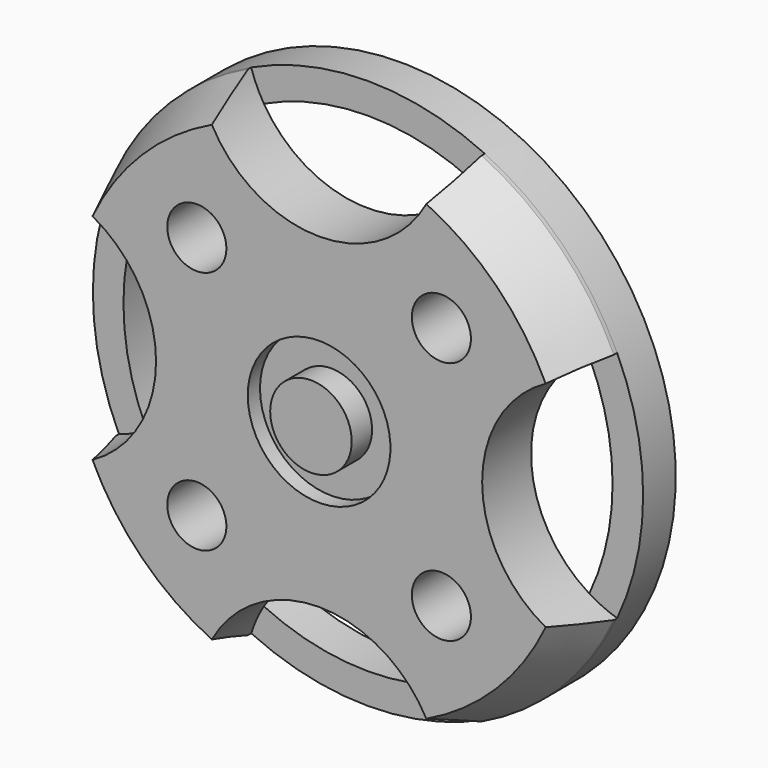
from build123d import *

# Parameters (mm, degrees)
CYLINDER032_R             = 1.45
CYLINDER032_DEPTH         = 10
CYLINDER033_R             = 1.45
CYLINDER033_DEPTH         = 10
CYLINDER034_R             = 1.45
CYLINDER034_DEPTH         = 10
CYLINDER031_R             = 1.45
CYLINDER031_DEPTH         = 10
CYLINDER028_R             = 3.5
CYLINDER028_DEPTH         = 10
CYLINDER026_R             = 6
CYLINDER026_DEPTH         = 10
CYLINDER027_R             = 6
CYLINDER027_DEPTH         = 10
CYLINDER024_R             = 6
CYLINDER024_DEPTH         = 10
CYLINDER025_R             = 6
CYLINDER025_DEPTH         = 10
CYLINDER023_R             = 13.5
CYLINDER023_DEPTH         = 3
CHAMFER003_SIZE2          = 1.2
CHAMFER003_SIZE           = 2.8
CYLINDER010_R             = 12
CYLINDER010_DEPTH         = 2
CYLINDER011_R             = 13.5
CYLINDER011_DEPTH         = 2
CYLINDER030_R             = 2
CYLINDER030_DEPTH         = 3
CYLINDER029_R             = 3.5
CYLINDER029_DEPTH         = 1.5
FUSION008_ROLL_ANGLE      = 90
FUSION008_PLACEMENT_ANGLE = 180


with BuildPart() as cylinder032:
    # Cylinder032 → Cylinder032 (new body)
    with BuildSketch(Plane(origin=(6, -6, 0), x_dir=(1, 0, 0), z_dir=(0, 0, 1))):
        Circle(CYLINDER032_R)
    extrude(amount=CYLINDER032_DEPTH)


with BuildPart() as cylinder033:
    # Cylinder033 → Cylinder033 (new body)
    with BuildSketch(Plane(origin=(-6, -6, 0), x_dir=(1, 0, 0), z_dir=(0, 0, 1))):
        Circle(CYLINDER033_R)
    extrude(amount=CYLINDER033_DEPTH)


with BuildPart() as cylinder034:
    # Cylinder034 → Cylinder034 (new body)
    with BuildSketch(Plane(origin=(-6, 6, 0), x_dir=(1, 0, 0), z_dir=(0, 0, 1))):
        Circle(CYLINDER034_R)
    extrude(amount=CYLINDER034_DEPTH)


with BuildPart() as cylinder031:
    # Cylinder031 → Cylinder031 (new body)
    with BuildSketch(Plane(origin=(6, 6, 0), x_dir=(1, 0, 0), z_dir=(0, 0, 1))):
        Circle(CYLINDER031_R)
    extrude(amount=CYLINDER031_DEPTH)


with BuildPart() as cylinder028:
    # Cylinder028 → Cylinder028 (new body)
    with BuildSketch(Plane.XY):
        Circle(CYLINDER028_R)
    extrude(amount=CYLINDER028_DEPTH)


with BuildPart() as cylinder026:
    # Cylinder026 → Cylinder026 (new body)
    with BuildSketch(Plane(origin=(0, 14, 0), x_dir=(1, 0, 0), z_dir=(0, 0, 1))):
        Circle(CYLINDER026_R)
    extrude(amount=CYLINDER026_DEPTH)


with BuildPart() as cylinder027:
    # Cylinder027 → Cylinder027 (new body)
    with BuildSketch(Plane(origin=(-14, 0, 0), x_dir=(1, 0, 0), z_dir=(0, 0, 1))):
        Circle(CYLINDER027_R)
    extrude(amount=CYLINDER027_DEPTH)


with BuildPart() as cylinder024:
    # Cylinder024 → Cylinder024 (new body)
    with BuildSketch(Plane(origin=(14, 0, 0), x_dir=(1, 0, 0), z_dir=(0, 0, 1))):
        Circle(CYLINDER024_R)
    extrude(amount=CYLINDER024_DEPTH)


with BuildPart() as cylinder025:
    # Cylinder025 → Cylinder025 (new body)
    with BuildSketch(Plane(origin=(0, -14, 0), x_dir=(1, 0, 0), z_dir=(0, 0, 1))):
        Circle(CYLINDER025_R)
    extrude(amount=CYLINDER025_DEPTH)


with BuildPart() as cut022:
    # Cylinder023 → Cylinder023 (new body)
    with BuildSketch(Plane.XY.offset(2)):
        Circle(CYLINDER023_R)
    extrude(amount=CYLINDER023_DEPTH)

    # Chamfer003
    chamfer003_edges = [cut022.edges().sort_by_distance(p)[0] for p in [
        (-13.5, 0, 2),
    ]]
    chamfer003_side = cut022.faces().sort_by_distance((-13.5, 0, 3.5))[0]
    chamfer(chamfer003_edges, length=CHAMFER003_SIZE, length2=CHAMFER003_SIZE2, reference=chamfer003_side)

    # Cut017: cut Cylinder025
    add(cylinder025.part, mode=Mode.SUBTRACT)

    # Cut018: cut Cylinder024
    add(cylinder024.part, mode=Mode.SUBTRACT)

    # Cut019: cut Cylinder027
    add(cylinder027.part, mode=Mode.SUBTRACT)

    # Cut020: cut Cylinder026
    add(cylinder026.part, mode=Mode.SUBTRACT)

    # Cut021: cut Cylinder028
    add(cylinder028.part, mode=Mode.SUBTRACT)


with BuildPart() as cylinder010:
    # Cylinder010 → Cylinder010 (new body)
    with BuildSketch(Plane.XY.offset(5)):
        Circle(CYLINDER010_R)
    extrude(amount=CYLINDER010_DEPTH)


with BuildPart() as stator_full:
    # Cylinder011 → Cylinder011 (new body)
    with BuildSketch(Plane.XY.offset(5)):
        Circle(CYLINDER011_R)
    extrude(amount=CYLINDER011_DEPTH)

    # Cut011: cut Cylinder010
    add(cylinder010.part, mode=Mode.SUBTRACT)

    # Fusion007: union Cut022
    add(cut022.part)

    # Cut022: cut Cylinder031
    add(cylinder031.part, mode=Mode.SUBTRACT)

    # Cut023: cut Cylinder034
    add(cylinder034.part, mode=Mode.SUBTRACT)

    # Cut024: cut Cylinder033
    add(cylinder033.part, mode=Mode.SUBTRACT)

    # Cut025: cut Cylinder032
    add(cylinder032.part, mode=Mode.SUBTRACT)


with BuildPart() as cylinder030:
    # Cylinder030 → Cylinder030 (new body)
    with BuildSketch(Plane.XY.offset(1.5)):
        Circle(CYLINDER030_R)
    extrude(amount=CYLINDER030_DEPTH)


with BuildPart() as stator:
    # Cylinder029 → Cylinder029 (new body)
    with BuildSketch(Plane.XY.offset(2.75)):
        Circle(CYLINDER029_R)
    extrude(amount=CYLINDER029_DEPTH)

    # Fusion006: union Cylinder030
    add(cylinder030.part)

    # Fusion008: union Stator_Full
    add(stator_full.part)


with BuildPart() as stator_1:
    # Fusion008 roll: moved
    add(stator.part.rotate(Axis((0, 0, 0), (1, 0, 0)), FUSION008_ROLL_ANGLE))


with BuildPart() as stator_2:
    # Fusion008 placement: moved
    add(stator_1.part.moved(Location((0, 20, 0))).rotate(Axis((0, 20, 0), (0, 0, 1)), FUSION008_PLACEMENT_ANGLE))


solid = stator_2.part
